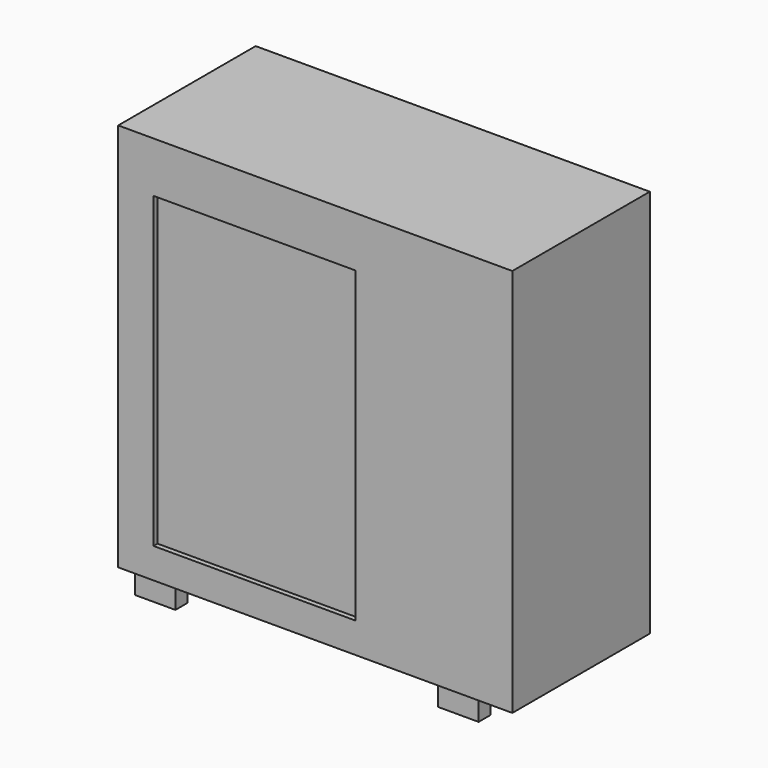
from build123d import *

# Parameters (mm, degrees)
F0_W     = 495.3
F0_H     = 488.95
F1_DEPTH = 107.95
F2_W     = 254
F2_H     = 387.35
F3_DEPTH = 6.35
F4_W     = 50.8
F4_H     = 19.05
F4_H_2   = 18.415
F5_DEPTH = 25.4
F6_W     = 106.6431775689
F6_H     = 105.2582077682
F6_W_2   = 47.7816872299
F6_H_2   = 191.8192440644
F7_DEPTH = 12.7


with BuildPart() as f1:
    # F0 (on Front) → F1 (new body, symmetric)
    with BuildSketch(Plane.XZ):
        Rectangle(F0_W, F0_H)
    extrude(amount=F1_DEPTH, both=True)

    # F2 (on face) → F3 (cut)
    with BuildSketch(Plane.XZ.offset(107.95)):
        with Locations((-76.2, -12.7)):
            Rectangle(F2_W, F2_H)
    extrude(amount=-F3_DEPTH, mode=Mode.SUBTRACT)

    # F4 (on face) → F5 (join)
    with BuildSketch(Plane(origin=(0, 0, -244.475), x_dir=(1, 0, 0), z_dir=(0, 0, -1))):
        with Locations((-203.2, 95.885)):
            Rectangle(F4_W, F4_H)
        with Locations((177.8, 95.885)):
            Rectangle(F4_W, F4_H)
        with Locations((177.8, -96.2025)):
            Rectangle(F4_W, F4_H_2)
        with Locations((-203.2, -95.885)):
            Rectangle(F4_W, F4_H)
    extrude(amount=F5_DEPTH)

    # F6 (on face) → F7 (cut)
    with BuildSketch(Plane(origin=(-247.65, 0, 0), x_dir=(0, -1, 0), z_dir=(-1, 0, 0))):
        with Locations((-1.0387524962, -84.1373149306)):
            Rectangle(F6_W, F6_H)
        with Locations((-58.1690315157, 105.9507015161)):
            Rectangle(F6_W_2, F6_H_2)
    extrude(amount=-F7_DEPTH, mode=Mode.SUBTRACT)


solid = f1.part
